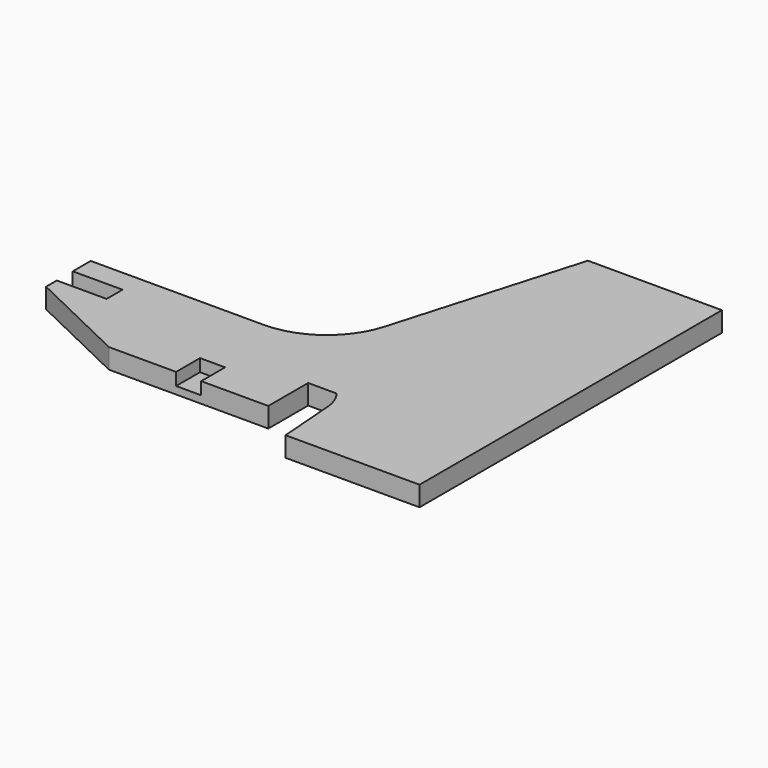
from build123d import *

# Parameters (mm, degrees)
PAD_DEPTH    = 2
SKETCH_W     = 5.04
SKETCH_H     = 6
POCKET_DEPTH = 2.5


with BuildPart() as part:
    # CopySketch004 → Pad (new body, symmetric)
    with BuildSketch(Plane.XY):
        with BuildLine():
            Line((-36.508492, 11.060009), (-1.723702, 11.060009))
            ThreePointArc((-1.723702, 11.060009), (7.733856, 14.212769), (13.407871, 22.409771))
            Line((13.407871, 22.409771), (24.319128, 59.832547))
            Line((24.319128, 59.832547), (51.226102, 59.832547))
            Line((51.226102, 59.832547), (51.226102, -16.067453))
            Line((24.319128, -16.067453), (51.226102, -16.067453))
            Line((23.401691, -4.060687), (24.319128, -16.067453))
            ThreePointArc((23.401691, -4.060687), (22.843077, -1.909417), (21.705474, 0))
            Line((16, 0), (21.705474, 0))
            Line((16, -10), (16, 0))
            Line((-16, -10), (16, -10))
            Line((-16, -10), (-36.508492, -0.144815))
            Line((-36.508492, 2.549264), (-36.508492, -0.144815))
            Line((-26.508492, 2.549264), (-36.508492, 2.549264))
            Line((-26.508492, 6.549264), (-26.508492, 2.549264))
            Line((-36.508492, 6.549264), (-26.508492, 6.549264))
            Line((-36.508492, 11.060009), (-36.508492, 6.549264))
        make_face()
    extrude(amount=PAD_DEPTH, both=True)

    # Sketch (on Face19 of Pad) → Pocket (cut)
    with BuildSketch(Plane.XY.offset(2)):
        with Locations((0, -7)):
            Rectangle(SKETCH_W, SKETCH_H)
    extrude(amount=-POCKET_DEPTH, mode=Mode.SUBTRACT)


solid = part.part
